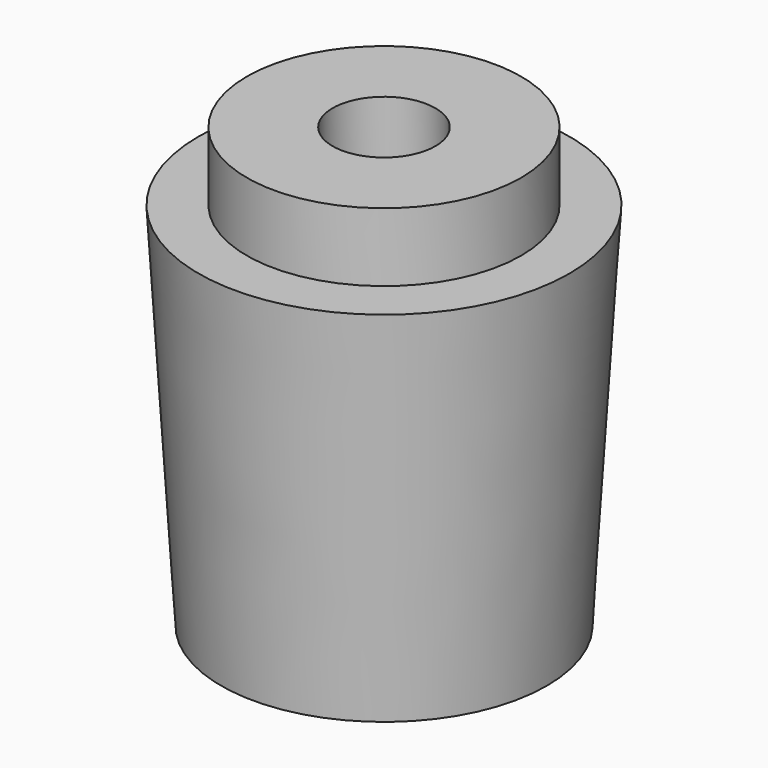
from build123d import *

# Parameters (mm, degrees)
F0_R      = 120.65
F1_DEPTH  = 274.32
F1_TAPER  = -3.5
F3_R      = 83.82
F4_DEPTH  = 177.8
F4_TAPER  = 2
F7_R      = 101.6
F8_DEPTH  = 50.8
F9_R      = 38.1
F10_DEPTH = 50.8


with BuildPart() as f1:
    # F0 (on Top) → F1 (new body)
    with BuildSketch(Plane.XY):
        Circle(F0_R)
    extrude(amount=F1_DEPTH, taper=F1_TAPER)

    # F3 (on face) → F4 (cut)
    with BuildSketch(Plane.XY.offset(274.32)):
        Circle(F3_R)
    extrude(amount=-F4_DEPTH, taper=F4_TAPER, mode=Mode.SUBTRACT)

    # F5 (on Front) → F6 (revolve, cut)
    with BuildSketch(Plane.XZ):
        Polygon((-154.2451560917, 211.1928361759), (-160.0039376117, 203.6058696936), (-38.612473894, 111.4653653729), (-32.8536923739, 119.0523318553), align=None)
    revolve(axis=Axis((-93.5494242328, 0, 165.1225840156), (0.7965319142, 0, -0.604596485)), mode=Mode.SUBTRACT)


with BuildPart() as f8:
    # F7 (on face) → F8 (new body)
    with BuildSketch(Plane.XY.offset(274.32)):
        Circle(F7_R)
    extrude(amount=F8_DEPTH)

    # F9 (on face) → F10 (cut)
    with BuildSketch(Plane.XY.offset(325.12)):
        Circle(F9_R)
    extrude(amount=-F10_DEPTH, mode=Mode.SUBTRACT)


solid = Compound([f1.part, f8.part])
